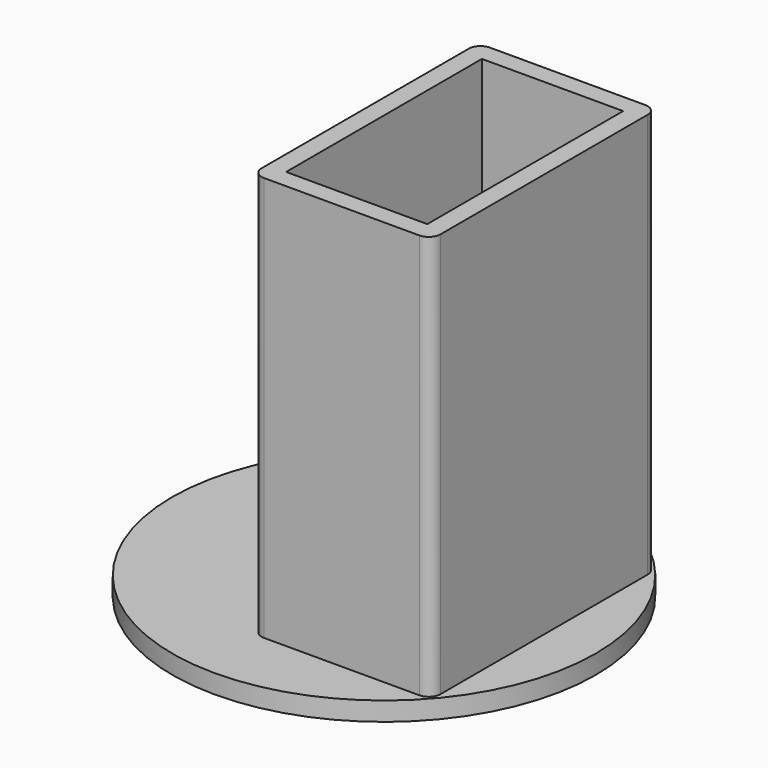
from build123d import *

# Parameters (mm, degrees)
F0_W     = 6
F0_H     = 10.4
F1_DEPTH = 18
F0_R     = 9
F2_DEPTH = 0.8


with BuildPart() as f1:
    # F0 (on Top) → F1 (new body)
    with BuildSketch(Plane.XY):
        with BuildLine():
            Line((6.8, -5.5), (6.8, 5.5))
            ThreePointArc((6.8, 5.5), (6.653553, 5.853553), (6.3, 6))
            Line((6.3, 6), (-0.3, 6))
            ThreePointArc((-0.3, 6), (-0.653553, 5.853553), (-0.8, 5.5))
            Line((-0.8, 5.5), (-0.8, -5.5))
            ThreePointArc((-0.8, -5.5), (-0.653553, -5.853553), (-0.3, -6))
            Line((-0.3, -6), (6.3, -6))
            ThreePointArc((6.3, -6), (6.653553, -5.853553), (6.8, -5.5))
        make_face()
        with Locations((3, 0)):
            Rectangle(F0_W, F0_H, mode=Mode.SUBTRACT)
    extrude(amount=F1_DEPTH)

    # F0 (on Top) → F2 (join)
    with BuildSketch(Plane.XY):
        Circle(F0_R)
        with BuildLine():
            ThreePointArc((6.3, 6), (6.653553, 5.853553), (6.8, 5.5))
            Line((6.8, 5.5), (6.8, -5.5))
            ThreePointArc((6.8, -5.5), (6.653553, -5.853553), (6.3, -6))
            Line((6.3, -6), (-0.3, -6))
            ThreePointArc((-0.3, -6), (-0.653553, -5.853553), (-0.8, -5.5))
            Line((-0.8, -5.5), (-0.8, 5.5))
            ThreePointArc((-0.8, 5.5), (-0.653553, 5.853553), (-0.3, 6))
            Line((-0.3, 6), (6.3, 6))
        make_face(mode=Mode.SUBTRACT)
    extrude(amount=F2_DEPTH)


solid = f1.part
